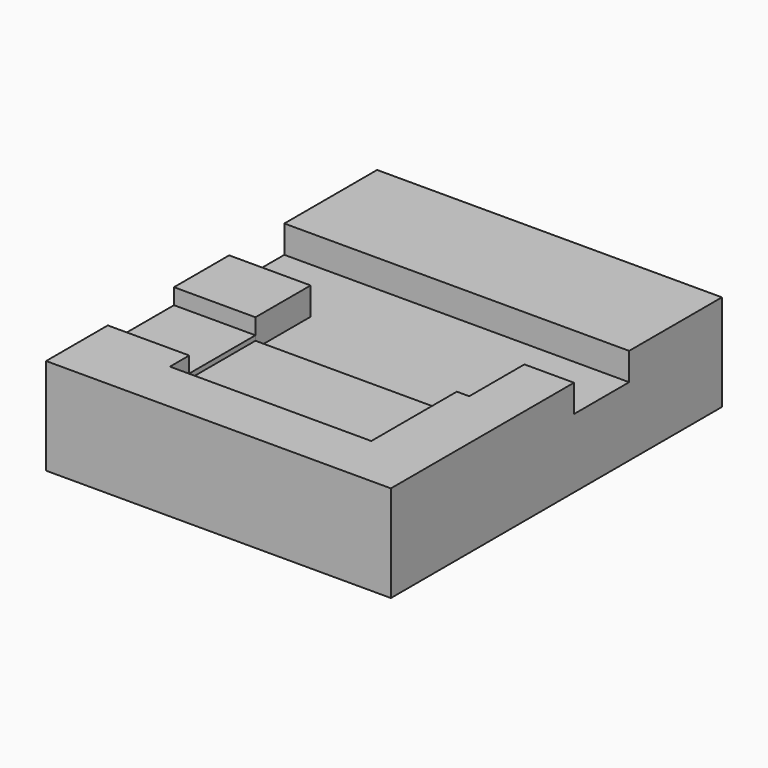
from build123d import *

# Parameters (mm, degrees)
F0_W     = 50
F0_H     = 60
F1_DEPTH = 14
F2_W     = 29.2
F2_H     = 15.5
F3_DEPTH = 3
F4_W     = 11.810996
F4_H     = 12
F5_DEPTH = 2.3
F7_DEPTH = 4


with BuildPart() as f1:
    # F0 (on Top) → F1 (new body)
    with BuildSketch(Plane.XY):
        with Locations((-0.093784, -7.974683)):
            Rectangle(F0_W, F0_H)
    extrude(amount=F1_DEPTH)

    # F2 (on face) → F3 (cut)
    with BuildSketch(Plane.XY.offset(14)):
        with Locations((1.317212, -22.539393)):
            Rectangle(F2_W, F2_H)
    extrude(amount=-F3_DEPTH, mode=Mode.SUBTRACT)

    # F4 (on face) → F5 (cut)
    with BuildSketch(Plane.XY.offset(14)):
        with Locations((-19.188286, -20.789393)):
            Rectangle(F4_W, F4_H)
    extrude(amount=-F5_DEPTH, mode=Mode.SUBTRACT)

    # F6 (on face) → F7 (cut)
    with BuildSketch(Plane.XY.offset(14)):
        Polygon((-13.282784, -4.789393), (-13.282784, -14.789393), (15.917212, -14.789393), (17.717216, -14.789393), (17.717216, -4.789393), (24.906216, -4.789393), (24.906216, 5.210607), (17.717216, 5.210607), (-13.282784, 5.210607), (-25.093784, 5.210607), (-25.093784, -4.789393), align=None)
    extrude(amount=-F7_DEPTH, mode=Mode.SUBTRACT)


solid = f1.part
